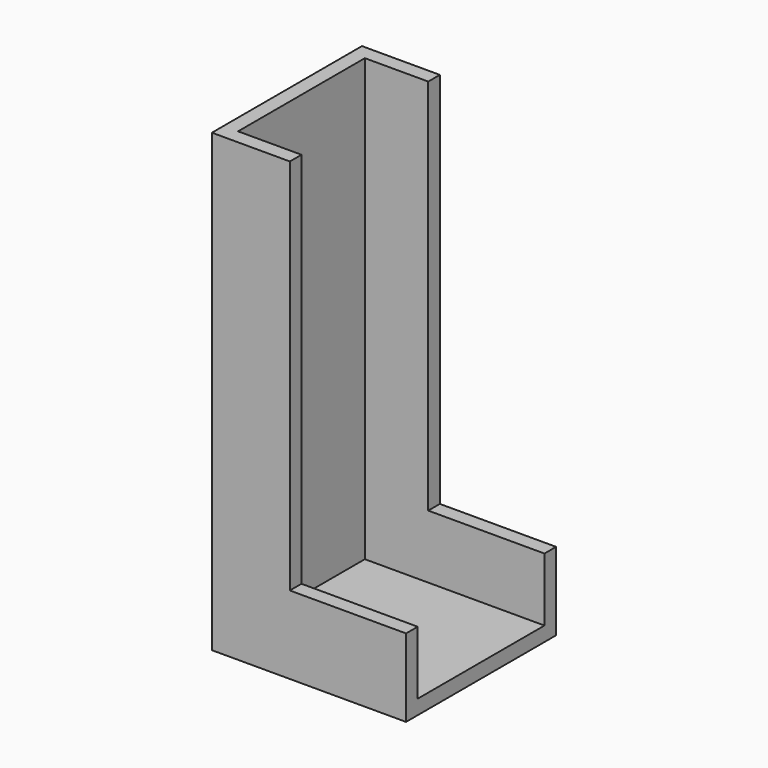
from build123d import *

# Parameters (mm, degrees)
BOX027_W     = 9.6
BOX027_H     = 24
BOX027_DEPTH = 66.8
BOX024_W     = 11.8
BOX024_H     = 28.4
BOX024_DEPTH = 69
BOX026_W     = 17.6
BOX026_H     = 24
BOX026_DEPTH = 9.6
BOX025_W     = 17.6
BOX025_H     = 28.4
BOX025_DEPTH = 11.8


with BuildPart() as cube020:
    # Box027 → Box027 (new body)
    with BuildSketch(Plane(origin=(-9.6, 2.2, 2.2), x_dir=(1, 0, 0), z_dir=(0, 0, 1))):
        with Locations((4.8, 12)):
            Rectangle(BOX027_W, BOX027_H)
    extrude(amount=BOX027_DEPTH)


with BuildPart() as cut024:
    # Box024 → Box024 (new body)
    with BuildSketch(Plane(origin=(-11.8, 0, 0), x_dir=(1, 0, 0), z_dir=(0, 0, 1))):
        with Locations((5.9, 14.2)):
            Rectangle(BOX024_W, BOX024_H)
    extrude(amount=BOX024_DEPTH)

    # Cut024: cut Cube020
    add(cube020.part, mode=Mode.SUBTRACT)


with BuildPart() as cube019:
    # Box026 → Box026 (new body)
    with BuildSketch(Plane(origin=(0, 2.2, 2.2), x_dir=(1, 0, 0), z_dir=(0, 0, 1))):
        with Locations((8.8, 12)):
            Rectangle(BOX026_W, BOX026_H)
    extrude(amount=BOX026_DEPTH)


with BuildPart() as rohr:
    # Box025 → Box025 (new body)
    with BuildSketch(Plane.XY):
        with Locations((8.8, 14.2)):
            Rectangle(BOX025_W, BOX025_H)
    extrude(amount=BOX025_DEPTH)

    # Cut023: cut Cube019
    add(cube019.part, mode=Mode.SUBTRACT)

    # Fusion010: union Cut024
    add(cut024.part)


with BuildPart() as rohr_1:
    # Fusion010 placement: moved
    add(rohr.part.moved(Location((50.2, 32.8, 30))))


solid = rohr_1.part
